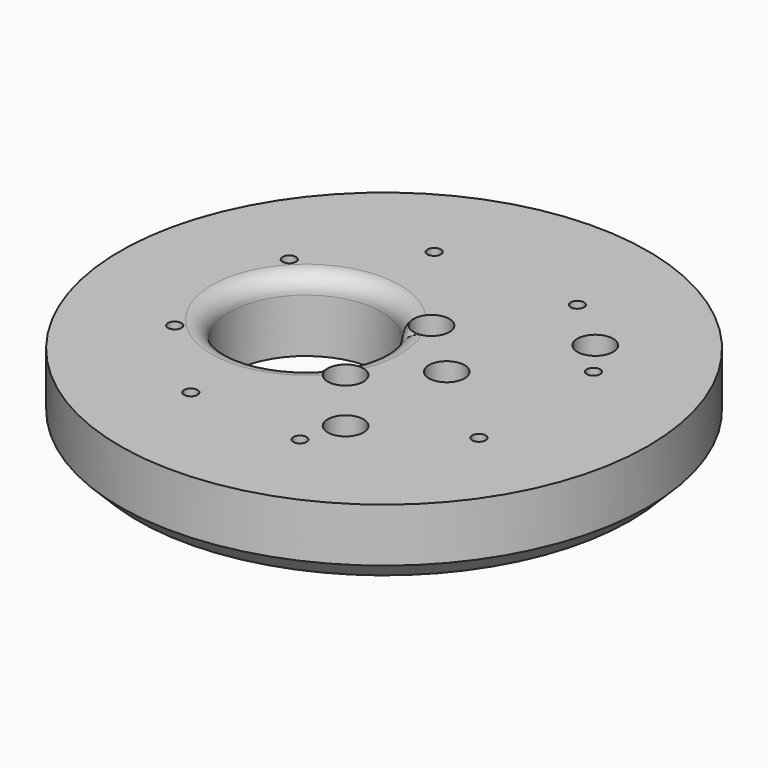
from build123d import *

# Parameters (mm, degrees)
CYLINDER1845_R     = 17
CYLINDER1845_DEPTH = 160
CYLINDER1789_R     = 4
CYLINDER1789_DEPTH = 100
CYLINDER1790_R     = 4
CYLINDER1790_DEPTH = 100
CYLINDER1809_R     = 1.5
CYLINDER1809_DEPTH = 100
CYLINDER1825_R     = 1.5
CYLINDER1825_DEPTH = 100
CYLINDER1824_R     = 1.5
CYLINDER1824_DEPTH = 100
CYLINDER1806_R     = 1.5
CYLINDER1806_DEPTH = 100
CYLINDER1805_R     = 1.5
CYLINDER1805_DEPTH = 100
CYLINDER1804_R     = 1.5
CYLINDER1804_DEPTH = 100
CYLINDER1803_R     = 1.5
CYLINDER1803_DEPTH = 100
CYLINDER1828_R     = 1.5
CYLINDER1828_DEPTH = 100
CYLINDER1826_R     = 4
CYLINDER1826_DEPTH = 100
CYLINDER1788_R     = 4
CYLINDER1788_DEPTH = 100
CYLINDER1787_R     = 4
CYLINDER1787_DEPTH = 100
CYLINDER1783_R     = 4
CYLINDER1783_DEPTH = 100
CYLINDER1785_R     = 4
CYLINDER1785_DEPTH = 100
CYLINDER1784_R     = 4
CYLINDER1784_DEPTH = 100
CYLINDER1786_R     = 4
CYLINDER1786_DEPTH = 100
CYLINDER1827_R     = 4
CYLINDER1827_DEPTH = 100
CYLINDER1797_R     = 4
CYLINDER1797_DEPTH = 20
CYLINDER1796_R     = 4
CYLINDER1796_DEPTH = 20
CYLINDER1795_R     = 4
CYLINDER1795_DEPTH = 20
CYLINDER1794_R     = 4
CYLINDER1794_DEPTH = 40
CYLINDER1793_R     = 4
CYLINDER1793_DEPTH = 40
CYLINDER1792_R     = 4
CYLINDER1792_DEPTH = 40
CYLINDER1791_R     = 4
CYLINDER1791_DEPTH = 40
CYLINDER1817_R     = 4
CYLINDER1817_DEPTH = 20
CYLINDER1798_R     = 59
CYLINDER1798_DEPTH = 16
CHAMFER061_SIZE    = 4
FILLET025_R        = 4


with BuildPart() as obj1:
    # Cylinder1845 → Cylinder1845 (new body)
    with BuildSketch(Plane(origin=(-18, 0, -60), x_dir=(1, 0, 0), z_dir=(0, 0, 1))):
        Circle(CYLINDER1845_R)
    extrude(amount=CYLINDER1845_DEPTH)


with BuildPart() as obj2:
    # Cylinder1789 → Cylinder1789 (new body)
    with BuildSketch(Plane(origin=(14, 0, -18), x_dir=(1, 0, 0), z_dir=(0, 0, 1))):
        Circle(CYLINDER1789_R)
    extrude(amount=CYLINDER1789_DEPTH)


with BuildPart() as obj3:
    # Cylinder1790 → Cylinder1790 (new body)
    with BuildSketch(Plane(origin=(90, 0, -18), x_dir=(1, 0, 0), z_dir=(0, 0, 1))):
        Circle(CYLINDER1790_R)
    extrude(amount=CYLINDER1790_DEPTH)

    # Compound957: union obj2
    add(obj2.part)


with BuildPart() as obj4:
    # Cylinder1809 → Cylinder1809 (new body)
    with BuildSketch(Plane(origin=(-34, -16, -60), x_dir=(1, 0, 0), z_dir=(0, 0, 1))):
        Circle(CYLINDER1809_R)
    extrude(amount=CYLINDER1809_DEPTH)


with BuildPart() as obj5:
    # Cylinder1825 → Cylinder1825 (new body)
    with BuildSketch(Plane(origin=(34, -16, -60), x_dir=(1, 0, 0), z_dir=(0, 0, 1))):
        Circle(CYLINDER1825_R)
    extrude(amount=CYLINDER1825_DEPTH)


with BuildPart() as obj6:
    # Cylinder1824 → Cylinder1824 (new body)
    with BuildSketch(Plane(origin=(34, 16, -60), x_dir=(1, 0, 0), z_dir=(0, 0, 1))):
        Circle(CYLINDER1824_R)
    extrude(amount=CYLINDER1824_DEPTH)


with BuildPart() as obj7:
    # Cylinder1806 → Cylinder1806 (new body)
    with BuildSketch(Plane(origin=(16, 34, -60), x_dir=(1, 0, 0), z_dir=(0, 0, 1))):
        Circle(CYLINDER1806_R)
    extrude(amount=CYLINDER1806_DEPTH)


with BuildPart() as obj8:
    # Cylinder1805 → Cylinder1805 (new body)
    with BuildSketch(Plane(origin=(10, -36, -60), x_dir=(1, 0, 0), z_dir=(0, 0, 1))):
        Circle(CYLINDER1805_R)
    extrude(amount=CYLINDER1805_DEPTH)


with BuildPart() as obj9:
    # Cylinder1804 → Cylinder1804 (new body)
    with BuildSketch(Plane(origin=(-16, -34, -60), x_dir=(1, 0, 0), z_dir=(0, 0, 1))):
        Circle(CYLINDER1804_R)
    extrude(amount=CYLINDER1804_DEPTH)


with BuildPart() as obj10:
    # Cylinder1803 → Cylinder1803 (new body)
    with BuildSketch(Plane(origin=(-16, 34, -60), x_dir=(1, 0, 0), z_dir=(0, 0, 1))):
        Circle(CYLINDER1803_R)
    extrude(amount=CYLINDER1803_DEPTH)


with BuildPart() as obj11:
    # Cylinder1828 → Cylinder1828 (new body)
    with BuildSketch(Plane(origin=(-34, 16, -60), x_dir=(1, 0, 0), z_dir=(0, 0, 1))):
        Circle(CYLINDER1828_R)
    extrude(amount=CYLINDER1828_DEPTH)

    # Compound954: union obj4, obj5, obj6, obj7, obj8, obj9, obj10
    add(obj4.part)
    add(obj5.part)
    add(obj6.part)
    add(obj7.part)
    add(obj8.part)
    add(obj9.part)
    add(obj10.part)


with BuildPart() as obj12:
    # Cylinder1826 → Cylinder1826 (new body)
    with BuildSketch(Plane(origin=(-16, 34, -90), x_dir=(1, 0, 0), z_dir=(0, 0, 1))):
        Circle(CYLINDER1826_R)
    extrude(amount=CYLINDER1826_DEPTH)


with BuildPart() as obj13:
    # Cylinder1788 → Cylinder1788 (new body)
    with BuildSketch(Plane(origin=(-16, -34, -90), x_dir=(1, 0, 0), z_dir=(0, 0, 1))):
        Circle(CYLINDER1788_R)
    extrude(amount=CYLINDER1788_DEPTH)


with BuildPart() as obj14:
    # Cylinder1787 → Cylinder1787 (new body)
    with BuildSketch(Plane(origin=(34, -16, -90), x_dir=(1, 0, 0), z_dir=(0, 0, 1))):
        Circle(CYLINDER1787_R)
    extrude(amount=CYLINDER1787_DEPTH)


with BuildPart() as obj15:
    # Cylinder1783 → Cylinder1783 (new body)
    with BuildSketch(Plane(origin=(16, 34, -90), x_dir=(1, 0, 0), z_dir=(0, 0, 1))):
        Circle(CYLINDER1783_R)
    extrude(amount=CYLINDER1783_DEPTH)


with BuildPart() as obj16:
    # Cylinder1785 → Cylinder1785 (new body)
    with BuildSketch(Plane(origin=(10, -36, -90), x_dir=(1, 0, 0), z_dir=(0, 0, 1))):
        Circle(CYLINDER1785_R)
    extrude(amount=CYLINDER1785_DEPTH)


with BuildPart() as obj17:
    # Cylinder1784 → Cylinder1784 (new body)
    with BuildSketch(Plane(origin=(-34, 16, -90), x_dir=(1, 0, 0), z_dir=(0, 0, 1))):
        Circle(CYLINDER1784_R)
    extrude(amount=CYLINDER1784_DEPTH)


with BuildPart() as obj18:
    # Cylinder1786 → Cylinder1786 (new body)
    with BuildSketch(Plane(origin=(34, 16, -90), x_dir=(1, 0, 0), z_dir=(0, 0, 1))):
        Circle(CYLINDER1786_R)
    extrude(amount=CYLINDER1786_DEPTH)


with BuildPart() as obj19:
    # Cylinder1827 → Cylinder1827 (new body)
    with BuildSketch(Plane(origin=(-34, -16, -90), x_dir=(1, 0, 0), z_dir=(0, 0, 1))):
        Circle(CYLINDER1827_R)
    extrude(amount=CYLINDER1827_DEPTH)

    # Compound956: union obj12, obj13, obj14, obj15, obj16, obj17, obj18
    add(obj12.part)
    add(obj13.part)
    add(obj14.part)
    add(obj15.part)
    add(obj16.part)
    add(obj17.part)
    add(obj18.part)


with BuildPart() as obj20:
    # Cylinder1797 → Cylinder1797 (new body)
    with BuildSketch(Plane(origin=(103, 12, -20), x_dir=(1, 0, 0), z_dir=(0, 0, 1))):
        Circle(CYLINDER1797_R)
    extrude(amount=CYLINDER1797_DEPTH)


with BuildPart() as obj21:
    # Cylinder1796 → Cylinder1796 (new body)
    with BuildSketch(Plane(origin=(76, 24, -18), x_dir=(1, 0, 0), z_dir=(0, 0, 1))):
        Circle(CYLINDER1796_R)
    extrude(amount=CYLINDER1796_DEPTH)


with BuildPart() as obj22:
    # Cylinder1795 → Cylinder1795 (new body)
    with BuildSketch(Plane(origin=(91, -27, -18), x_dir=(1, 0, 0), z_dir=(0, 0, 1))):
        Circle(CYLINDER1795_R)
    extrude(amount=CYLINDER1795_DEPTH)


with BuildPart() as obj23:
    # Cylinder1794 → Cylinder1794 (new body)
    with BuildSketch(Plane(origin=(13, -27, -18), x_dir=(1, 0, 0), z_dir=(0, 0, 1))):
        Circle(CYLINDER1794_R)
    extrude(amount=CYLINDER1794_DEPTH)


with BuildPart() as obj24:
    # Cylinder1793 → Cylinder1793 (new body)
    with BuildSketch(Plane(origin=(28, 24, -18), x_dir=(1, 0, 0), z_dir=(0, 0, 1))):
        Circle(CYLINDER1793_R)
    extrude(amount=CYLINDER1793_DEPTH)


with BuildPart() as obj25:
    # Cylinder1792 → Cylinder1792 (new body)
    with BuildSketch(Plane(origin=(1, -12, -18), x_dir=(1, 0, 0), z_dir=(0, 0, 1))):
        Circle(CYLINDER1792_R)
    extrude(amount=CYLINDER1792_DEPTH)


with BuildPart() as obj26:
    # Cylinder1791 → Cylinder1791 (new body)
    with BuildSketch(Plane(origin=(1, 12, -18), x_dir=(1, 0, 0), z_dir=(0, 0, 1))):
        Circle(CYLINDER1791_R)
    extrude(amount=CYLINDER1791_DEPTH)


with BuildPart() as obj27:
    # Cylinder1817 → Cylinder1817 (new body)
    with BuildSketch(Plane(origin=(103, -12, -20), x_dir=(1, 0, 0), z_dir=(0, 0, 1))):
        Circle(CYLINDER1817_R)
    extrude(amount=CYLINDER1817_DEPTH)

    # Compound955: union obj20, obj21, obj22, obj23, obj24, obj25, obj26
    add(obj20.part)
    add(obj21.part)
    add(obj22.part)
    add(obj23.part)
    add(obj24.part)
    add(obj25.part)
    add(obj26.part)


with BuildPart() as fillet025:
    # Cylinder1798 → Cylinder1798 (new body)
    with BuildSketch(Plane.XY.offset(2)):
        Circle(CYLINDER1798_R)
    extrude(amount=CYLINDER1798_DEPTH)

    # Cut614: cut obj27
    add(obj27.part, mode=Mode.SUBTRACT)

    # Cut615: cut obj19
    add(obj19.part, mode=Mode.SUBTRACT)

    # Cut619: cut obj11
    add(obj11.part, mode=Mode.SUBTRACT)

    # Chamfer061
    chamfer061_edges = [fillet025.edges().sort_by_distance(p)[0] for p in [
        (-59, 0, 2),
    ]]
    chamfer(chamfer061_edges, length=CHAMFER061_SIZE)

    # Cut620: cut obj3
    add(obj3.part, mode=Mode.SUBTRACT)


with BuildPart() as fillet025_1:
    # Cut620 placement: moved
    add(fillet025.part.moved(Location((-0.5, 0, 14))))

    # Cut613: cut obj1
    add(obj1.part, mode=Mode.SUBTRACT)

    # Fillet025
    fillet025_edges = [fillet025_1.edges().sort_by_distance(p)[0] for p in [
        (-35, 0, 32),
    ]]
    fillet(fillet025_edges, radius=FILLET025_R)


solid = fillet025_1.part
